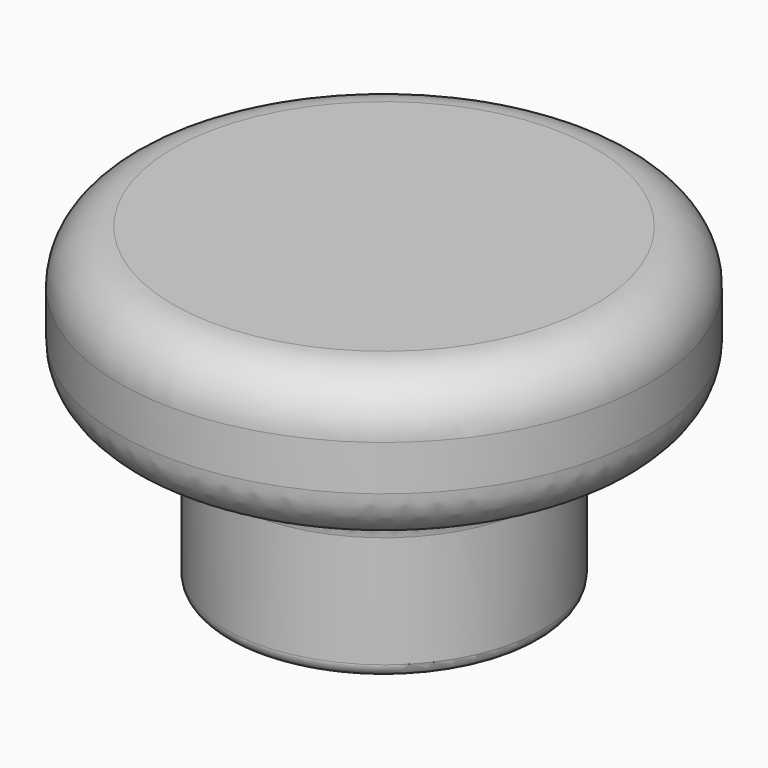
from build123d import *

# Parameters (mm, degrees)
F2_R     = 1.75
F3_DEPTH = 12.5
F4_R     = 3
F5_R     = 2
F6_R     = 0.75


with BuildPart() as f1:
    # F0 (on Front) → F1 (revolve)
    with BuildSketch(Plane.XZ):
        Polygon((-9, 0), (0, 0), (0, 18), (-15, 18), (-15, 10), (-9, 8.721018), align=None)
    revolve(axis=Axis((0, 0, 9), (0, 0, 1)))

    # F2 (on face) → F3 (cut)
    with BuildSketch(Plane(origin=(0, 0, 0), x_dir=(1, 0, 0), z_dir=(0, 0, -1))):
        Circle(F2_R)
    extrude(amount=-F3_DEPTH, mode=Mode.SUBTRACT)

    # F4
    f4_edges = [f1.edges().sort_by_distance(p)[0] for p in [
        (15, 0, 18),
        (15, 0, 10),
    ]]
    fillet(f4_edges, radius=F4_R)

    # F5
    f5_edges = [f1.edges().sort_by_distance(p)[0] for p in [
        (9, 0, 8.721018),
    ]]
    fillet(f5_edges, radius=F5_R)

    # F6
    f6_edges = [f1.edges().sort_by_distance(p)[0] for p in [
        (9, 0, 0),
    ]]
    fillet(f6_edges, radius=F6_R)


solid = f1.part
